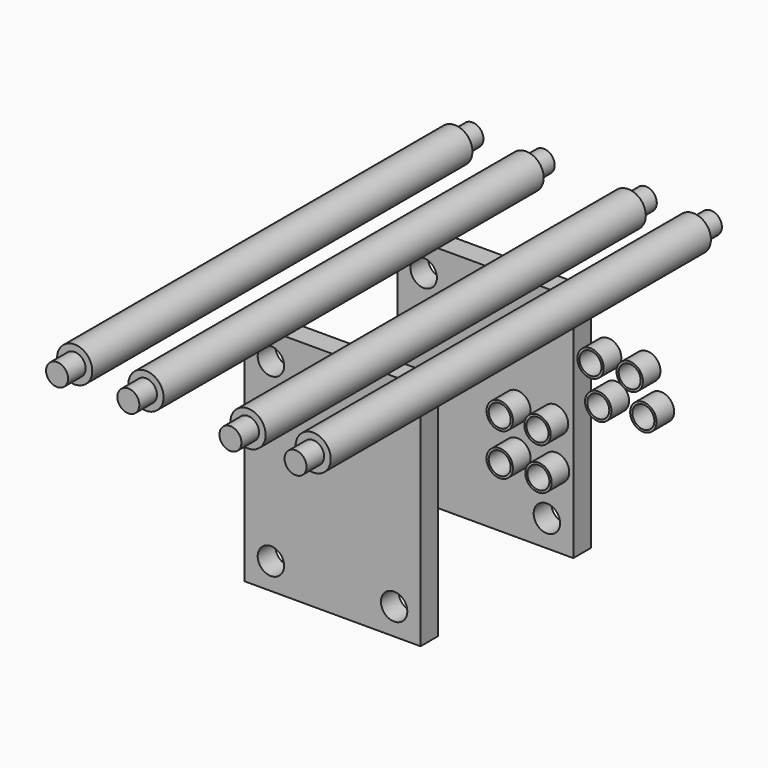
from build123d import *

# Parameters (mm, degrees)
F0_W      = 200
F0_H      = 260
F0_R      = 15
F1_DEPTH  = 25
F2_R      = 15
F2_R_2    = 12.5
F3_DEPTH  = 25
F12_R     = 12.5
F13_DEPTH = 295
F12_R_2   = 20
F14_DEPTH = 270


with BuildPart() as f1:
    # F0 (on Front) → F1 (new body)
    with BuildSketch(Plane.XZ):
        with Locations((-100, -130)):
            Rectangle(F0_W, F0_H)
        with Locations((-170, -230)):
            Circle(F0_R, mode=Mode.SUBTRACT)
        with Locations((-30, -230)):
            Circle(F0_R, mode=Mode.SUBTRACT)
        with Locations((-170, -30)):
            Circle(F0_R, mode=Mode.SUBTRACT)
        with Locations((-30, -30)):
            Circle(F0_R, mode=Mode.SUBTRACT)
    extrude(amount=F1_DEPTH)


with BuildPart() as f3:
    # F2 (on Front) → F3 (new body)
    with BuildSketch(Plane.XZ):
        with Locations((90, 0)):
            Circle(F2_R)
        with Locations((90, 0)):
            Circle(F2_R_2, mode=Mode.SUBTRACT)
    extrude(amount=F3_DEPTH)


with BuildPart() as f4_1:
    # F4: copy of F3
    add(f3.part.moved(Location((42.9, 0, 0))))


with BuildPart() as f5_1:
    # F5: copy of F3
    add(f3.part.moved(Location((0, 0, -47.6))))


with BuildPart() as f6_1:
    # F6: copy of F5_1
    add(f5_1.part.moved(Location((44, 0, 0))))


with BuildPart() as f7_1:
    # F7: copy of F1
    add(f1.part.moved(Location((0, 217, 0))))


with BuildPart() as f8_1:
    # F8: copy of F3
    add(f3.part.moved(Location((0, 129, 0))))


with BuildPart() as f9_1:
    # F9: copy of F4_1
    add(f4_1.part.moved(Location((0, 131, 0))))


with BuildPart() as f10_1:
    # F10: copy of F5_1
    add(f5_1.part.moved(Location((0, 140, 0))))


with BuildPart() as f11_1:
    # F11: copy of F6_1
    add(f6_1.part.moved(Location((0, 149, 0))))


with BuildPart() as f13:
    # F12 (on Front) → F13 (new body, symmetric)
    with BuildSketch(Plane.XZ):
        with Locations((0, 57.499595)):
            Circle(F12_R)
    extrude(amount=F13_DEPTH, both=True)

    # F12 (on Front) → F14 (join, symmetric)
    with BuildSketch(Plane.XZ):
        with Locations((0, 57.499595)):
            Circle(F12_R_2)
        with Locations((0, 57.499595)):
            Circle(F12_R, mode=Mode.SUBTRACT)
    extrude(amount=F14_DEPTH, both=True)


with BuildPart() as f15_1:
    # F15: copy of F13
    add(f13.part.moved(Location((74, 0, 0))))


with BuildPart() as f16_1:
    # F16: copy of F13
    add(f13.part.moved(Location((-116, 0, 0))))


with BuildPart() as f17_1:
    # F17: copy of F16_1
    add(f16_1.part.moved(Location((-81, 0, 0))))


solid = Compound([f1.part, f3.part, f4_1.part, f5_1.part, f6_1.part, f7_1.part, f8_1.part, f9_1.part, f10_1.part, f11_1.part, f13.part, f15_1.part, f16_1.part, f17_1.part])
